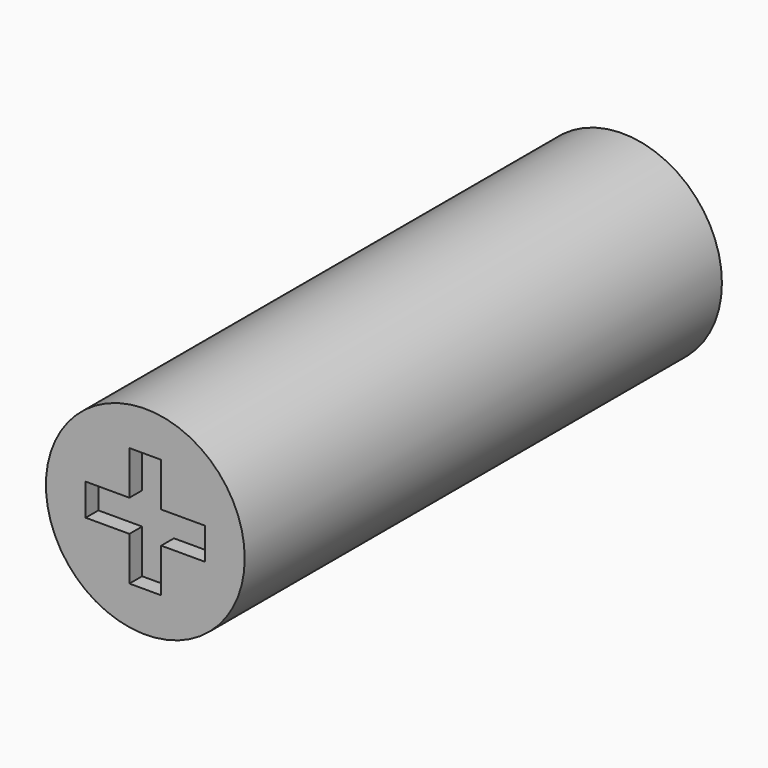
from build123d import *

# Parameters (mm, degrees)
F0_W     = 120
F0_H     = 4
F1_DEPTH = 4
F3_R     = 2.5
F4_DEPTH = 15
F5_W     = 0.4
F5_H     = 0.4
F5_H_2   = 1.1
F5_W_2   = 1.1
F6_DEPTH = 0.4


with BuildPart() as f1:
    # F0 (on Top) → F1 (new body)
    with BuildSketch(Plane.XY):
        Polygon((-79.6833248483, 0), (-93.6833248483, 0), (-93.6833248483, -12), (-79.6833248483, -12), (-79.6833248483, -8), (-79.6833248483, -4), align=None)
        with Locations((-19.6833248483, -2)):
            Rectangle(F0_W, F0_H)
        Polygon((54.3166751517, 0), (40.3166751517, 0), (40.3166751517, -4), (40.3166751517, -8), (40.3166751517, -12), (54.3166751517, -12), align=None)
        with Locations((-19.6833248483, -10)):
            Rectangle(F0_W, F0_H)
    extrude(amount=F1_DEPTH)


with BuildPart() as f4:
    # F3 (on Front) → F4 (new body)
    with BuildSketch(Plane.XZ):
        Circle(F3_R)
    extrude(amount=F4_DEPTH)

    # F5 (on face) → F6 (cut)
    with BuildSketch(Plane.XZ.offset(15)):
        with Locations((-0.2, 0.2)):
            Rectangle(F5_W, F5_H)
        with Locations((0.2, -0.2)):
            Rectangle(F5_W, F5_H)
        with Locations((-0.2, -0.2)):
            Rectangle(F5_W, F5_H)
        with Locations((0.2, 0.2)):
            Rectangle(F5_W, F5_H)
        with Locations((-0.2, 0.95)):
            Rectangle(F5_W, F5_H_2)
        with Locations((0.2, 0.95)):
            Rectangle(F5_W, F5_H_2)
        with Locations((0.2, -0.95)):
            Rectangle(F5_W, F5_H_2)
        with Locations((-0.2, -0.95)):
            Rectangle(F5_W, F5_H_2)
        with Locations((-0.95, -0.2)):
            Rectangle(F5_W_2, F5_H)
        with Locations((-0.95, 0.2)):
            Rectangle(F5_W_2, F5_H)
        with Locations((0.95, 0.2)):
            Rectangle(F5_W_2, F5_H)
        with Locations((0.95, -0.2)):
            Rectangle(F5_W_2, F5_H)
    extrude(amount=-F6_DEPTH, mode=Mode.SUBTRACT)


solid = f4.part
